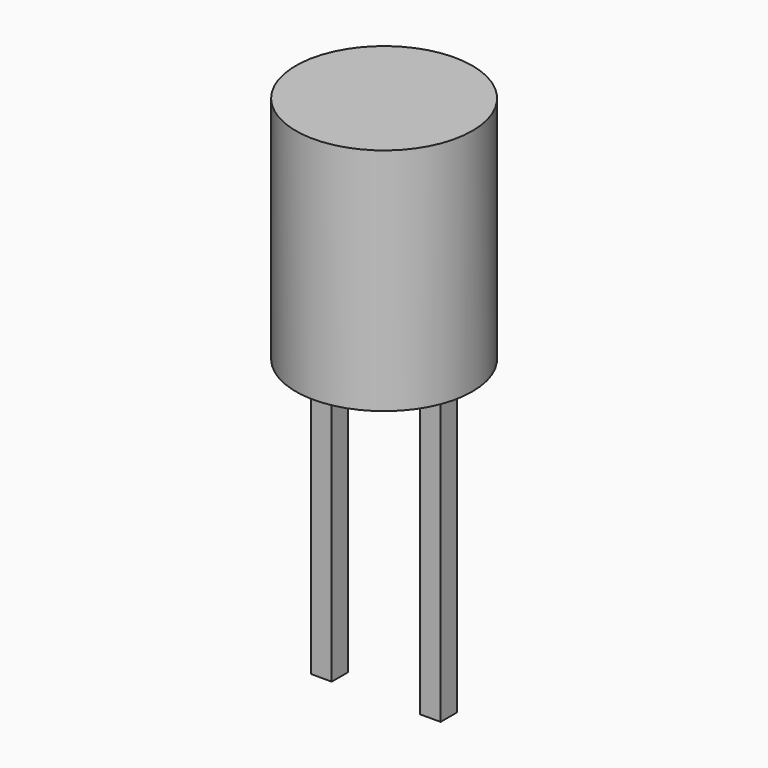
from build123d import *

# Parameters (mm, degrees)
SKETCH021_W           = 0.7
SKETCH021_H           = 0.7
PAD010002001013_DEPTH = 10
SKETCH020_R           = 3
PAD010002001012_DEPTH = 7.8


with BuildPart() as pad010002001013:
    # Sketch021 → Pad010002001013 (new body)
    with BuildSketch(Plane.XY):
        with Locations((-1.85, 0)):
            Rectangle(SKETCH021_W, SKETCH021_H)
        with Locations((1.85, 0)):
            Rectangle(SKETCH021_W, SKETCH021_H)
    extrude(amount=PAD010002001013_DEPTH)


with BuildPart() as countled:
    # Sketch020 → Pad010002001012 (new body)
    with BuildSketch(Plane.XY.offset(10)):
        Circle(SKETCH020_R)
    extrude(amount=PAD010002001012_DEPTH)

    # Fusion008: union Pad010002001013
    add(pad010002001013.part)


with BuildPart() as countled_1:
    # Fusion008 placement: moved
    add(countled.part.moved(Location((56, -5, 38))))


solid = countled_1.part
